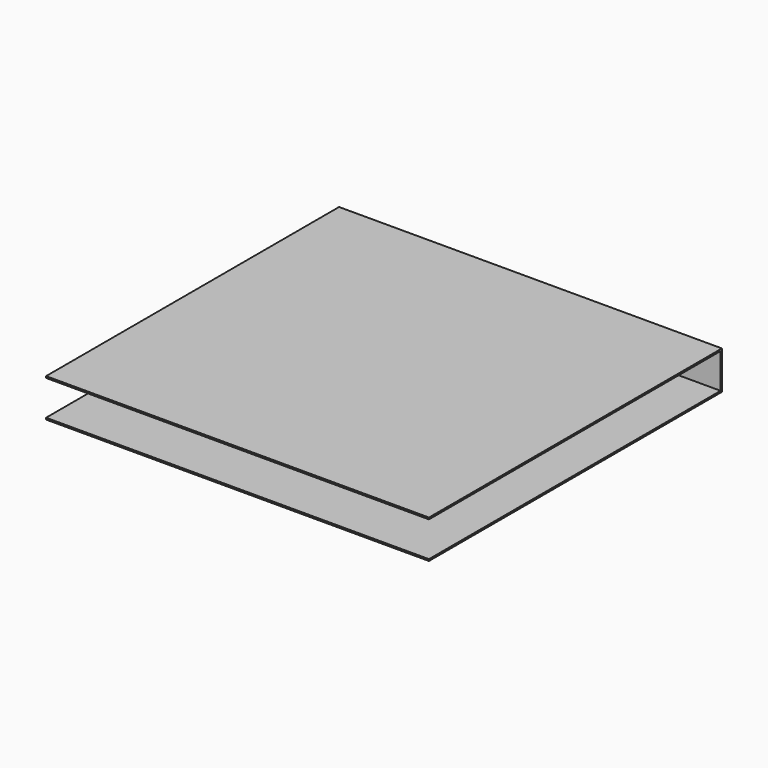
from build123d import *

# Parameters (mm, degrees)
BOX069_W     = 11.5
BOX069_H     = 10.95
BOX069_DEPTH = 1.05
BOX068_W     = 11.5
BOX068_H     = 11
BOX068_DEPTH = 1.15


with BuildPart() as small_cu_gnd_electrode020:
    # Box069 → Box069 (new body)
    with BuildSketch(Plane.XY.offset(0.05)):
        with Locations((5.75, 5.475)):
            Rectangle(BOX069_W, BOX069_H)
    extrude(amount=BOX069_DEPTH)


with BuildPart() as large_cu_electrode_short_axis_gnd001:
    # Box068 → Box068 (new body)
    with BuildSketch(Plane.XY):
        with Locations((5.75, 5.5)):
            Rectangle(BOX068_W, BOX068_H)
    extrude(amount=BOX068_DEPTH)

    # Cut017: cut Small Cu GND Electrode020
    add(small_cu_gnd_electrode020.part, mode=Mode.SUBTRACT)


with BuildPart() as large_cu_electrode_short_axis_gnd001_1:
    # Cut017 placement: moved
    add(large_cu_electrode_short_axis_gnd001.part.moved(Location((-4.76, 9.63, 19.4))))


solid = large_cu_electrode_short_axis_gnd001_1.part
